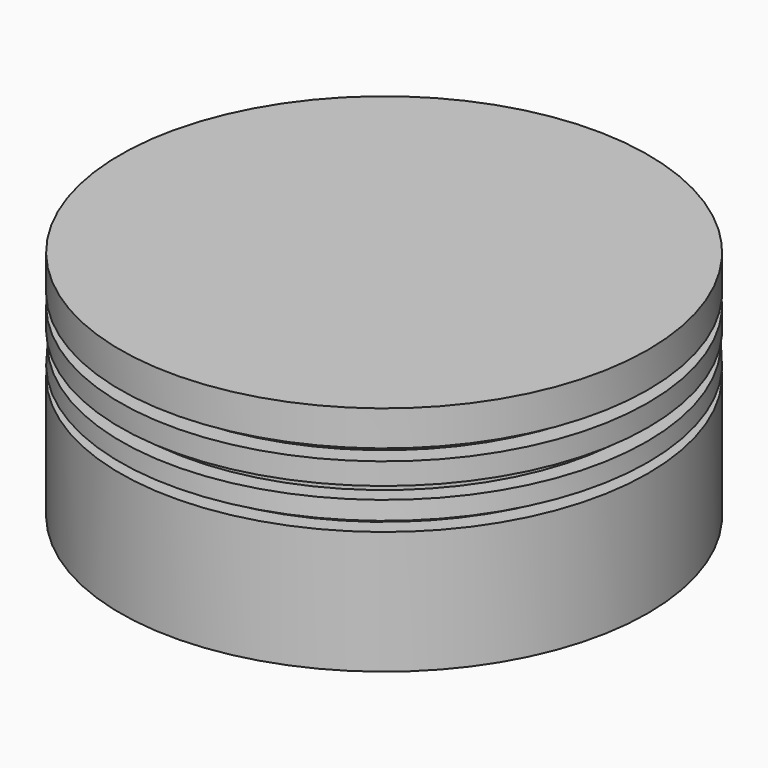
from build123d import *


with BuildPart() as f1:
    # F0 (on Front) → F1 (revolve)
    with BuildSketch(Plane.XZ):
        with BuildLine():
            Line((83.359114, -5.08), (83.359114, 0))
            Line((83.359114, 0), (45.259114, 0))
            Line((45.259114, 0), (45.259114, -24.796592))
            ThreePointArc((45.259114, -24.796592), (64.807486, -26.936857), (83.359114, -33.460405))
            Line((83.359114, -33.460405), (83.359114, -15.706522))
            Line((83.359114, -15.706522), (80.893344, -15.706522))
            Line((80.893344, -15.706522), (80.817882, -14.438765))
            Line((80.817882, -14.438765), (83.359114, -14.287501))
            Line((83.359114, -14.287501), (83.205484, -11.706533))
            Line((83.205484, -11.706533), (80.808878, -11.706533))
            Line((80.808878, -11.706533), (80.808878, -9.862984))
            Line((80.808878, -9.862984), (83.359114, -9.862984))
            Line((83.359114, -9.862984), (83.359114, -6.731))
            Line((83.359114, -6.731), (80.640316, -6.731))
            Line((80.640316, -6.731), (80.640316, -5.08))
            Line((80.640316, -5.08), (83.359114, -5.08))
        make_face()
    revolve(axis=Axis((45.259114, 0, -12.398296), (0, 0, -1)))


solid = f1.part
